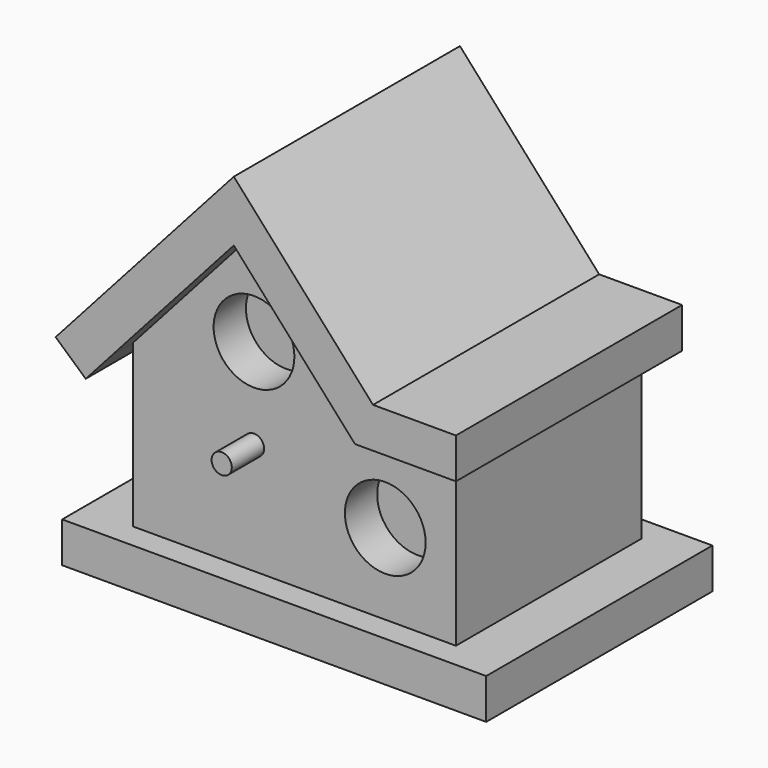
from build123d import *

# Parameters (mm, degrees)
F0_W      = 105
F0_H      = 70
F1_DEPTH  = 10
F2_W      = 80
F2_H      = 57.5
F3_DEPTH  = 40
F5_DEPTH  = 57.5
F7_DEPTH  = 70
F8_R      = 2.5
F9_DEPTH  = 10
F10_R     = 10
F11_DEPTH = 10
F12_R     = 10
F13_DEPTH = 10


with BuildPart() as f1:
    # F0 (on Top) → F1 (new body)
    with BuildSketch(Plane.XY):
        Rectangle(F0_W, F0_H)
    extrude(amount=F1_DEPTH)

    # F2 (on face) → F3 (join)
    with BuildSketch(Plane.XY.offset(10)):
        Rectangle(F2_W, F2_H)
    extrude(amount=F3_DEPTH)

    # F4 (on face) → F5 (join)
    with BuildSketch(Plane.XZ.offset(28.75)):
        Polygon((-10, 83.54102), (-40, 50), (20, 50), align=None)
    extrude(amount=-F5_DEPTH)

    # F6 (on face) → F7 (join, through all)
    with BuildSketch(Plane.XZ.offset(35)):
        Polygon((20, 50), (45, 50), (45, 60), (24.472136, 60), (-10, 98.54102), (-54.120227, 49.213107), (-46.666667, 42.54644), (-40, 50), (-10, 83.54102), align=None)
    extrude(amount=-F7_DEPTH)

    # F8 (on face) → F9 (join)
    with BuildSketch(Plane.XZ.offset(28.75)):
        with Locations((-10, 37.5)):
            Circle(F8_R)
    extrude(amount=F9_DEPTH)

    # F10 (on face) → F11 (cut)
    with BuildSketch(Plane.XZ.offset(28.75)):
        with Locations((22.5, 30)):
            Circle(F10_R)
    extrude(amount=-F11_DEPTH, mode=Mode.SUBTRACT)

    # F12 (on face) → F13 (cut)
    with BuildSketch(Plane.XZ.offset(28.75)):
        with Locations((-10, 60)):
            Circle(F12_R)
    extrude(amount=-F13_DEPTH, mode=Mode.SUBTRACT)


solid = f1.part
